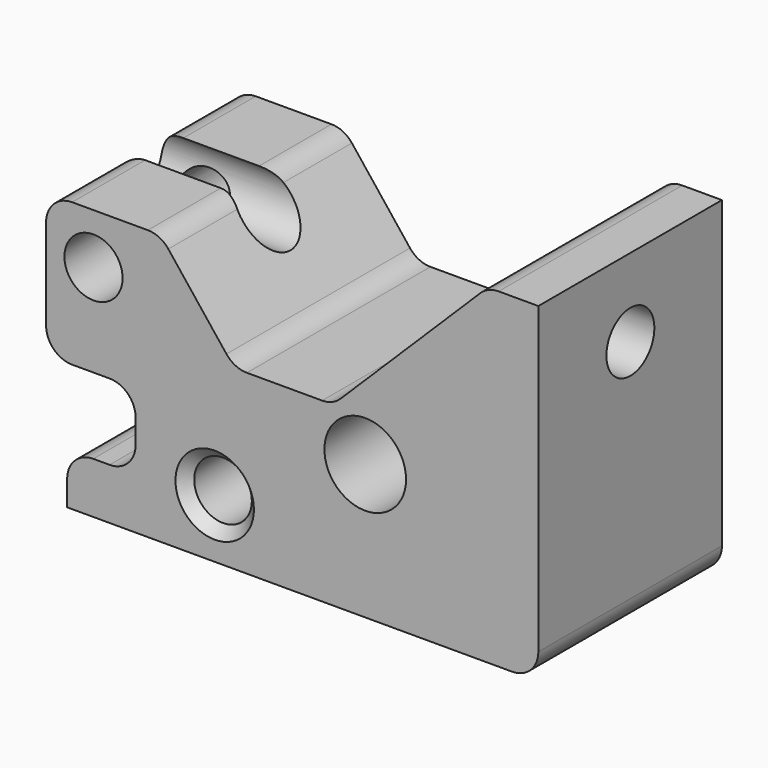
from build123d import *

# Parameters (mm, degrees)
F0_R       = 7.0158249189
F0_R_2     = 7.6708
F0_R_3     = 9.9404801973
F0_R_4     = 7.0825554901
F1_DEPTH   = 55.88
F2_R       = 7.297507907
F1_FACE1_W = 55.88
F1_FACE1_H = 22.1268048838
F3_DEPTH   = 119.8785358498
F4_SIZE    = 2.54


with BuildPart() as f1:
    # F0 (on Front) → F1 (new body)
    with BuildSketch(Plane.XZ):
        with BuildLine():
            Line((-30.753318463, 45.9163933992), (-49.1895893753, 45.9163933992))
            ThreePointArc((-49.1895893753, 45.9163933992), (-53.6797174358, 44.0565214598), (-55.5395893753, 39.5663933992))
            Line((-55.5395893753, 39.5663933992), (-55.5395893753, 17.4395885155))
            ThreePointArc((-55.5395893753, 17.4395885155), (-53.6797174358, 12.9494604549), (-49.1895893753, 11.0895885155))
            Line((-49.1895893753, 11.0895885155), (-40.0770088494, 11.0895885155))
            ThreePointArc((-40.0770088494, 11.0895885155), (-35.5868807888, 9.229716576), (-33.7270088494, 4.7395885155))
            Line((-33.7270088494, 4.7395885155), (-33.7270088494, -1.0736080982))
            ThreePointArc((-33.7270088494, -1.0736080982), (-35.5868807888, -5.5637361587), (-40.0770088494, -7.4236080982))
            Line((-40.0770088494, -7.4236080982), (-44.0572159529, -7.4236080982))
            ThreePointArc((-44.0572159529, -7.4236080982), (-48.5473440134, -9.2834800376), (-50.4072159529, -13.7736080982))
            Line((-50.4072159529, -13.7736080982), (-50.4072159529, -19.8879390955))
            Line((-50.4072159529, -19.8879390955), (57.9879464746, -19.8879390955))
            ThreePointArc((57.9879464746, -19.8879390955), (62.4780745351, -18.028067156), (64.3379464746, -13.5379390955))
            Line((64.3379464746, -13.5379390955), (64.3379464746, 60.5803094804))
            Line((64.3379464746, 60.5803094804), (54.6690416703, 60.5803094804))
            ThreePointArc((54.6690416703, 60.5803094804), (52.2533179297, 60.1028539723), (50.2008699704, 58.742287058))
            Line((50.2008699704, 58.742287058), (16.1533638011, 25.0253412392))
            ThreePointArc((16.1533638011, 25.0253412392), (14.1009158419, 23.6647743249), (11.6851921012, 23.1873188168))
            Line((11.6851921012, 23.1873188168), (-6.639673132, 23.1873188168))
            ThreePointArc((-6.639673132, 23.1873188168), (-9.4073756693, 23.8222227839), (-11.6216214126, 25.5999730955))
            Line((-11.6216214126, 25.5999730955), (-25.7713701823, 43.5037391206))
            ThreePointArc((-25.7713701823, 43.5037391206), (-27.9856159257, 45.2814894321), (-30.753318463, 45.9163933992))
        make_face()
        with Locations((-14.4806178287, -5.590618588)):
            Circle(F0_R, mode=Mode.SUBTRACT)
        with Locations((48.0243302882, -7.7902064659)):
            Circle(F0_R_2, mode=Mode.SUBTRACT)
        with Locations((22.1791788936, 12.9225775599)):
            Circle(F0_R_3, mode=Mode.SUBTRACT)
        with Locations((-43.9917519689, 33.6353629827)):
            Circle(F0_R_4, mode=Mode.SUBTRACT)
        with Locations((48.0243302882, -7.7902064659)):
            Circle(F0_R_2)
    extrude(amount=F1_DEPTH)

    # F2 (on face) + F1_face1 (on face) → F3 (cut, through all)
    with BuildSketch(Plane.YZ.offset(64.3379464746)):
        with Locations((-27.8614442796, 41.5172167122)):
            Circle(F2_R)
    with BuildSketch(Plane(origin=(-55.5395893753, -27.94, 28.5029909573), x_dir=(0, -1, 0), z_dir=(-1, 0, 0))):
        Rectangle(F1_FACE1_W, F1_FACE1_H)
    extrude(amount=-F3_DEPTH, dir=(1, 0, 0), mode=Mode.SUBTRACT)

    # F4
    f4_edges = [f1.edges().sort_by_distance(p)[0] for p in [
        (-21.496443, -55.88, -5.590619),
    ]]
    chamfer(f4_edges, length=F4_SIZE)


solid = f1.part
